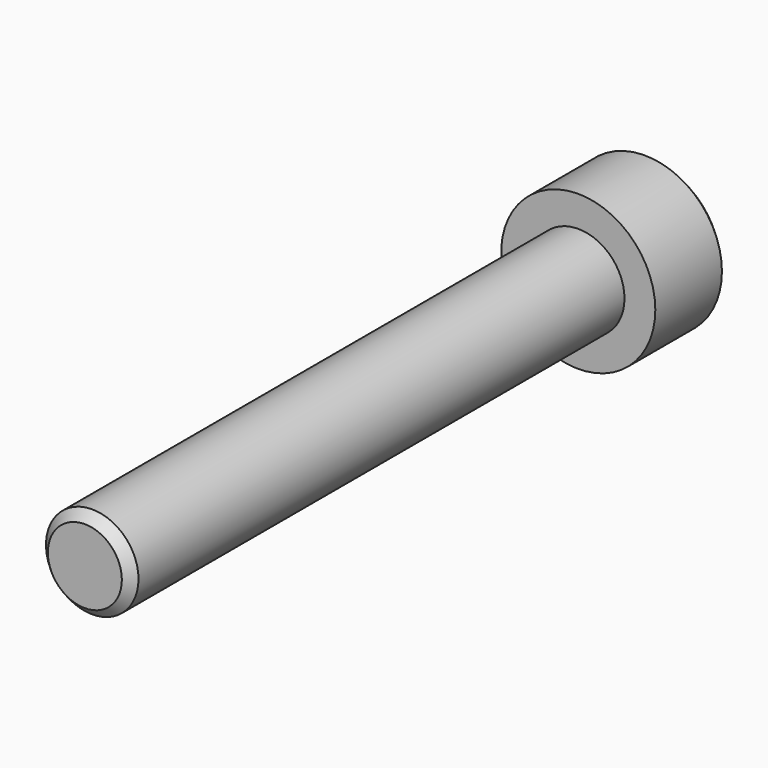
from build123d import *

# Parameters (mm, degrees)
F0_R     = 5
F1_DEPTH = 6
F2_R     = 3
F3_DEPTH = 40
F5_DEPTH = 3
F6_SIZE  = 0.6


with BuildPart() as f1:
    # F0 (on Front) → F1 (new body)
    with BuildSketch(Plane.XZ):
        Circle(F0_R)
    extrude(amount=F1_DEPTH)

    # F2 (on face) → F3 (join)
    with BuildSketch(Plane.XZ.offset(6)):
        Circle(F2_R)
    extrude(amount=F3_DEPTH)

    # F4 (on face) → F5 (cut)
    with BuildSketch(Plane(origin=(0, 0, 0), x_dir=(-1, 0, 0), z_dir=(0, 1, 0))):
        Polygon((1.443376, 2.5), (-1.443376, 2.5), (-2.886751, 0), (-1.443376, -2.5), (1.443376, -2.5), (2.886751, 0), align=None)
    extrude(amount=-F5_DEPTH, mode=Mode.SUBTRACT)

    # F6
    f6_edges = [f1.edges().sort_by_distance(p)[0] for p in [
        (-5, 0, 0),
        (-3, -46, 0),
    ]]
    chamfer(f6_edges, length=F6_SIZE)


solid = f1.part
